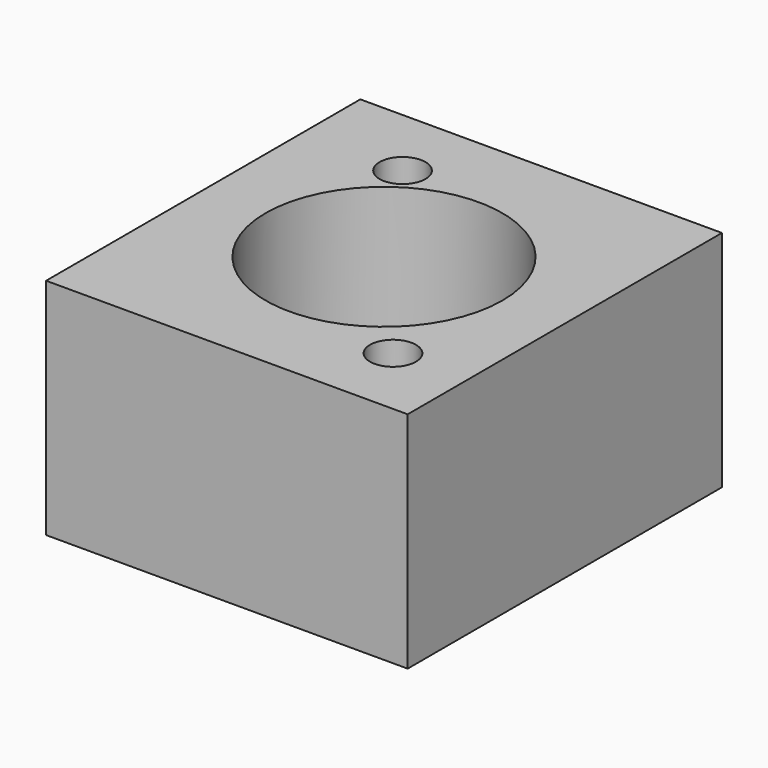
from build123d import *

# Parameters (mm, degrees)
F0_W     = 25.019
F0_H     = 27.178
F0_W_2   = 19.939
F0_H_2   = 22.098
F0_R     = 1.5875
F0_R_2   = 8.1915
F1_DEPTH = 15.494


with BuildPart() as f1:
    # F0 (on Top) → F1 (new body)
    with BuildSketch(Plane.XY):
        Rectangle(F0_W, F0_H)
        Rectangle(F0_W_2, F0_H_2, mode=Mode.SUBTRACT)
        Rectangle(F0_W_2, F0_H_2)
        with Locations((7.4295, -8.509)):
            Circle(F0_R, mode=Mode.SUBTRACT)
        with Locations((-5.5245, 8.509)):
            Circle(F0_R, mode=Mode.SUBTRACT)
        Circle(F0_R_2, mode=Mode.SUBTRACT)
    extrude(amount=F1_DEPTH)


solid = f1.part
